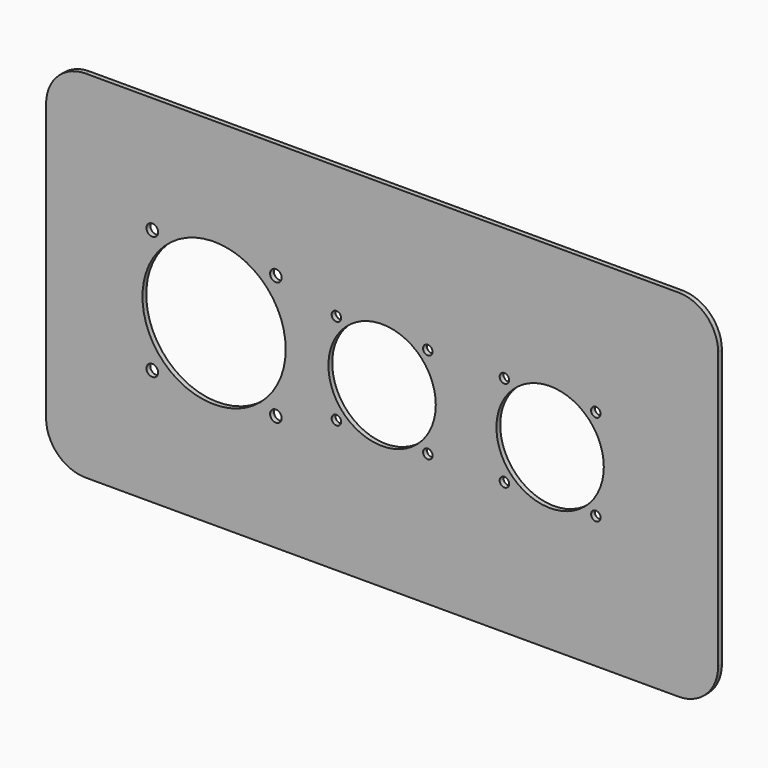
from build123d import *

# Parameters (mm, degrees)
F1_DEPTH = 1.524
F2_R     = 23.0124
F2_R_2   = 1.8669
F2_R_3   = 17.2466
F2_R_4   = 1.524
F3_DEPTH = 1.525


with BuildPart() as f1:
    # F0 (on Front) → F1 (new body)
    with BuildSketch(Plane.XZ):
        with BuildLine():
            Line((203.2, 0), (12.7, 0))
            ThreePointArc((12.7, 0), (3.719744, -3.719744), (0, -12.7))
            Line((0, -12.7), (0, -101.6))
            ThreePointArc((0, -101.6), (3.719744, -110.580256), (12.7, -114.3))
            Line((12.7, -114.3), (203.2, -114.3))
            ThreePointArc((203.2, -114.3), (212.180256, -110.580256), (215.9, -101.6))
            Line((215.9, -101.6), (215.9, -12.7))
            ThreePointArc((215.9, -12.7), (212.180256, -3.719744), (203.2, 0))
        make_face()
    extrude(amount=F1_DEPTH)

    # F2 (on face) → F3 (cut, through all)
    with BuildSketch(Plane.XZ.offset(1.524)):
        with Locations((53.975, -57.15)):
            Circle(F2_R)
        with Locations((34.1249, -37.2999)):
            Circle(F2_R_2)
        with Locations((73.8251, -37.2999)):
            Circle(F2_R_2)
        with Locations((73.8251, -77.0001)):
            Circle(F2_R_2)
        with Locations((34.1249, -77.0001)):
            Circle(F2_R_2)
        with Locations((161.925, -57.15)):
            Circle(F2_R_3)
        with Locations((147.2438, -42.4688)):
            Circle(F2_R_4)
        with Locations((176.6062, -42.4688)):
            Circle(F2_R_4)
        with Locations((176.6062, -71.8312)):
            Circle(F2_R_4)
        with Locations((147.2438, -71.8312)):
            Circle(F2_R_4)
        with Locations((107.95, -57.15)):
            Circle(F2_R_3)
        with Locations((93.2688, -42.4688)):
            Circle(F2_R_4)
        with Locations((122.6312, -42.4688)):
            Circle(F2_R_4)
        with Locations((122.6312, -71.8312)):
            Circle(F2_R_4)
        with Locations((93.2688, -71.8312)):
            Circle(F2_R_4)
    extrude(amount=-F3_DEPTH, mode=Mode.SUBTRACT)


solid = f1.part
